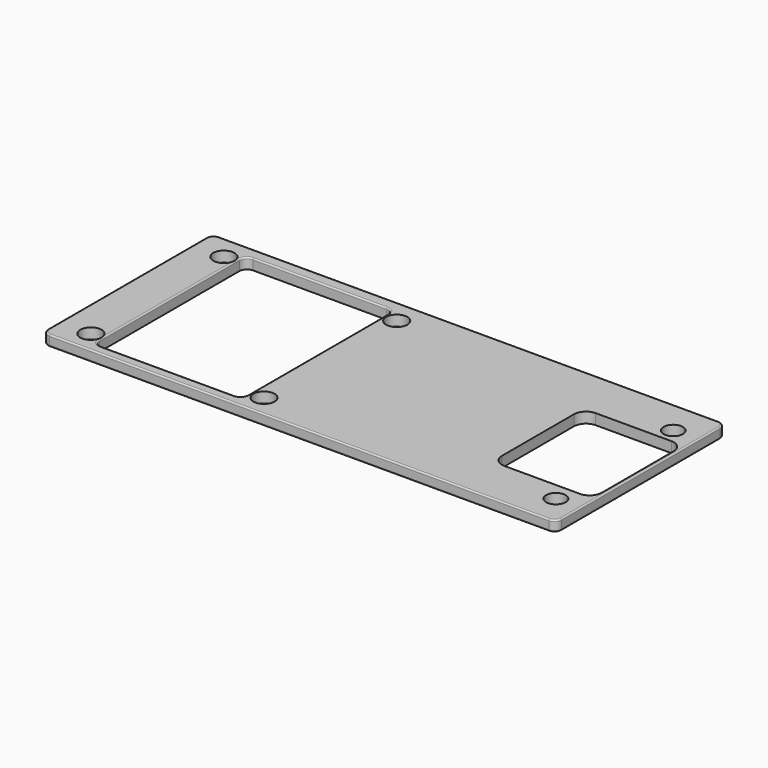
from build123d import *

# Parameters (mm, degrees)
SKETCH001_R   = 1.5
SKETCH001_R_2 = 1.375
PAD001_DEPTH  = 1.5
FILLET001_R   = 0.2
FILLET002_R   = 0.2
FILLET003_R   = 0.2


with BuildPart() as part:
    # Sketch001 → Pad001 (new body)
    with BuildSketch(Plane.XY):
        with BuildLine():
            Line((-35.07682, -14.822674), (35.499554, -14.822674))
            ThreePointArc((35.499554, -14.822674), (36.206661, -14.529781), (36.499554, -13.822674))
            Line((36.499554, -13.822674), (36.499554, 14.149868))
            ThreePointArc((36.499554, 14.149868), (36.206661, 14.856975), (35.499554, 15.149868))
            Line((35.499554, 15.149868), (-35.07682, 15.149868))
            ThreePointArc((-35.07682, 15.149868), (-35.783927, 14.856975), (-36.07682, 14.149868))
            Line((-36.07682, 14.149868), (-36.07682, -13.822674))
            ThreePointArc((-36.07682, -13.822674), (-35.783927, -14.529781), (-35.07682, -14.822674))
        make_face()
        with Locations((-31.664087, -11.774244)):
            Circle(SKETCH001_R, mode=Mode.SUBTRACT)
        with Locations((-31.670164, 11.730007)):
            Circle(SKETCH001_R, mode=Mode.SUBTRACT)
        with Locations((-7.183492, -11.791598)):
            Circle(SKETCH001_R, mode=Mode.SUBTRACT)
        with Locations((-7.228608, 11.705488)):
            Circle(SKETCH001_R, mode=Mode.SUBTRACT)
        with Locations((32.976643, 10.303188)):
            Circle(SKETCH001_R_2, mode=Mode.SUBTRACT)
        with Locations((33.041733, -10.508623)):
            Circle(SKETCH001_R_2, mode=Mode.SUBTRACT)
        with BuildLine():
            Line((34.398702, 8.193074), (23.707742, 8.193074))
            ThreePointArc((23.707742, 8.193074), (22.498043, 7.692), (21.996969, 6.482301))
            Line((21.996969, 6.482301), (21.996969, -6.241538))
            ThreePointArc((21.996969, -6.241538), (22.498043, -7.451237), (23.707742, -7.95231))
            Line((23.707742, -7.95231), (34.398702, -7.95231))
            ThreePointArc((34.398702, -7.95231), (35.608401, -7.451237), (36.109474, -6.241538))
            Line((36.109474, -6.241538), (36.109474, 6.482301))
            ThreePointArc((36.109474, 6.482301), (35.608401, 7.692), (34.398702, 8.193074))
        make_face(mode=Mode.SUBTRACT)
        with BuildLine():
            Line((-30.005591, 12.366703), (-30.005591, -12.32248))
            ThreePointArc((-30.005591, -12.32248), (-29.687046, -13.091518), (-28.918008, -13.410063))
            Line((-28.918008, -13.410063), (-10.086485, -13.410063))
            ThreePointArc((-10.086485, -13.410063), (-9.317448, -13.091518), (-8.998902, -12.32248))
            Line((-8.998902, -12.32248), (-8.998902, 12.366703))
            ThreePointArc((-8.998902, 12.366703), (-9.317448, 13.13574), (-10.086485, 13.454286))
            Line((-10.086485, 13.454286), (-28.918008, 13.454286))
            ThreePointArc((-28.918008, 13.454286), (-29.687046, 13.13574), (-30.005591, 12.366703))
        make_face(mode=Mode.SUBTRACT)
    extrude(amount=PAD001_DEPTH)

    # Fillet001
    fillet001_edges = [part.edges().sort_by_distance(p)[0] for p in [
        (0.211367, -14.822674, 1.5),
    ]]
    fillet(fillet001_edges, radius=FILLET001_R)

    # Fillet002
    fillet002_edges = [part.edges().sort_by_distance(p)[0] for p in [
        (0.211367, -14.822674, 0),
    ]]
    fillet(fillet002_edges, radius=FILLET002_R)

    # Fillet003
    fillet003_edges = [part.edges().sort_by_distance(p)[0] for p in [
        (-30.005591, 0.022111, 1.5),
    ]]
    fillet(fillet003_edges, radius=FILLET003_R)


solid = part.part
